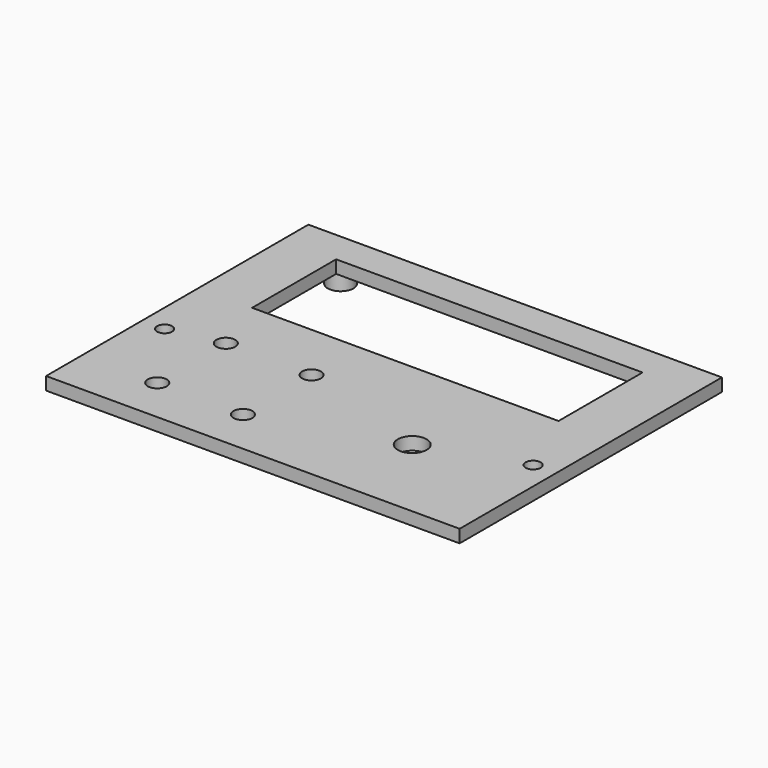
from build123d import *

# Parameters (mm, degrees)
SKETCH_W      = 96.5
SKETCH_H      = 76.5
SKETCH_R      = 1.75
SKETCH_R_2    = 2.2
SKETCH_R_3    = 3.370836
SKETCH_W_2    = 71.5
SKETCH_H_2    = 24.5
PAD_DEPTH     = 3
SKETCH001_R   = 3
SKETCH001_R_2 = 1.35
PAD001_DEPTH  = 4


with BuildPart() as part:
    # Sketch → Pad (new body)
    with BuildSketch(Plane.XY):
        Rectangle(SKETCH_W, SKETCH_H)
        with Locations((-43, -10.25)):
            Circle(SKETCH_R, mode=Mode.SUBTRACT)
        with Locations((43, -10.25)):
            Circle(SKETCH_R, mode=Mode.SUBTRACT)
        with Locations((-30.747, -7.700343)):
            Circle(SKETCH_R_2, mode=Mode.SUBTRACT)
        with Locations((-10.747, -7.700343)):
            Circle(SKETCH_R_2, mode=Mode.SUBTRACT)
        with Locations((-30.747, -27.700343)):
            Circle(SKETCH_R_2, mode=Mode.SUBTRACT)
        with Locations((-10.747, -27.700343)):
            Circle(SKETCH_R_2, mode=Mode.SUBTRACT)
        with Locations((20.747, -17.700343)):
            Circle(SKETCH_R_3, mode=Mode.SUBTRACT)
        with Locations((0, 18.472892)):
            Rectangle(SKETCH_W_2, SKETCH_H_2, mode=Mode.SUBTRACT)
    extrude(amount=PAD_DEPTH)

    # Sketch001 (on Face16 of Pad) → Pad001 (join)
    with BuildSketch(Plane(origin=(0, 0, 0), x_dir=(1, 0, 0), z_dir=(0, 0, -1))):
        with Locations((-37.5, -3.222892)):
            Circle(SKETCH001_R)
        with Locations((-37.5, -3.222892)):
            Circle(SKETCH001_R_2, mode=Mode.SUBTRACT)
        with Locations((37.5, -3.222892)):
            Circle(SKETCH001_R)
        with Locations((37.5, -3.222892)):
            Circle(SKETCH001_R_2, mode=Mode.SUBTRACT)
        with Locations((37.5, -34.222892)):
            Circle(SKETCH001_R)
        with Locations((37.5, -34.222892)):
            Circle(SKETCH001_R_2, mode=Mode.SUBTRACT)
        with Locations((-37.5, -34.222892)):
            Circle(SKETCH001_R)
        with Locations((-37.5, -34.222892)):
            Circle(SKETCH001_R_2, mode=Mode.SUBTRACT)
    extrude(amount=PAD001_DEPTH)


solid = part.part
